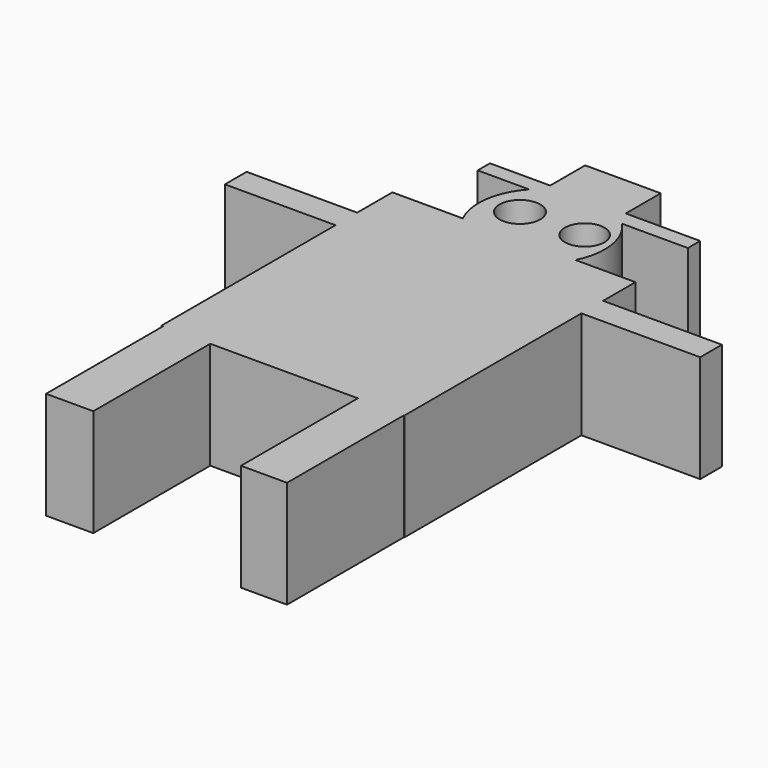
from build123d import *

# Parameters (mm, degrees)
F0_W      = 57.525436
F0_H      = 68.329709
F1_DEPTH  = 25.4
F2_R      = 14.907727
F3_DEPTH  = 25.4
F4_W      = 49.749678
F4_H      = 3.633402
F5_DEPTH  = 25.4
F6_W      = 17.887524
F6_H      = 13.415642
F7_DEPTH  = 25.4
F8_W      = 31.582661
F8_H      = 6.428329
F8_W_2    = 31.023681
F8_H_2    = 6.42833
F9_DEPTH  = 25.4
F10_W     = 10.900209
F10_H     = 34.936577
F10_W_2   = 11.179707
F10_H_2   = 35.216067
F11_DEPTH = 25.4
F12_R     = 4.685148
F12_R_2   = 4.808572
F13_DEPTH = 25.4


with BuildPart() as f1:
    # F0 (on Top) → F1 (new body)
    with BuildSketch(Plane.XY):
        with Locations((1.752042, -4.234104)):
            Rectangle(F0_W, F0_H)
    extrude(amount=F1_DEPTH)

    # F2 (on Top) → F3 (join)
    with BuildSketch(Plane.XY):
        with Locations((3.003552, 36.584344)):
            Circle(F2_R)
    extrude(amount=F3_DEPTH)

    # F4 (on Top) → F5 (join)
    with BuildSketch(Plane.XY):
        with Locations((4.68051, 48.462778)):
            Rectangle(F4_W, F4_H)
    extrude(amount=F5_DEPTH)

    # F6 (on Top) → F7 (join)
    with BuildSketch(Plane.XY):
        with Locations((3.003553, 53.912882)):
            Rectangle(F6_W, F6_H)
    extrude(amount=F7_DEPTH)

    # F8 (on Top) → F9 (join)
    with BuildSketch(Plane.XY):
        with Locations((42.831245, 17.159609)):
            Rectangle(F8_W, F8_H)
        with Locations((-37.662617, 16.321131)):
            Rectangle(F8_W_2, F8_H_2)
    extrude(amount=F9_DEPTH)

    # F10 (on Top) → F11 (join)
    with BuildSketch(Plane.XY):
        with Locations((24.943721, -55.508465)):
            Rectangle(F10_W, F10_H)
        with Locations((-21.032811, -55.368719)):
            Rectangle(F10_W_2, F10_H_2)
    extrude(amount=F11_DEPTH)

    # F12 (on Top) → F13 (cut)
    with BuildSketch(Plane.XY):
        with Locations((11.388331, 38.820285)):
            Circle(F12_R)
        with Locations((-3.704268, 38.540792)):
            Circle(F12_R_2)
    extrude(amount=F13_DEPTH, mode=Mode.SUBTRACT)


solid = f1.part
